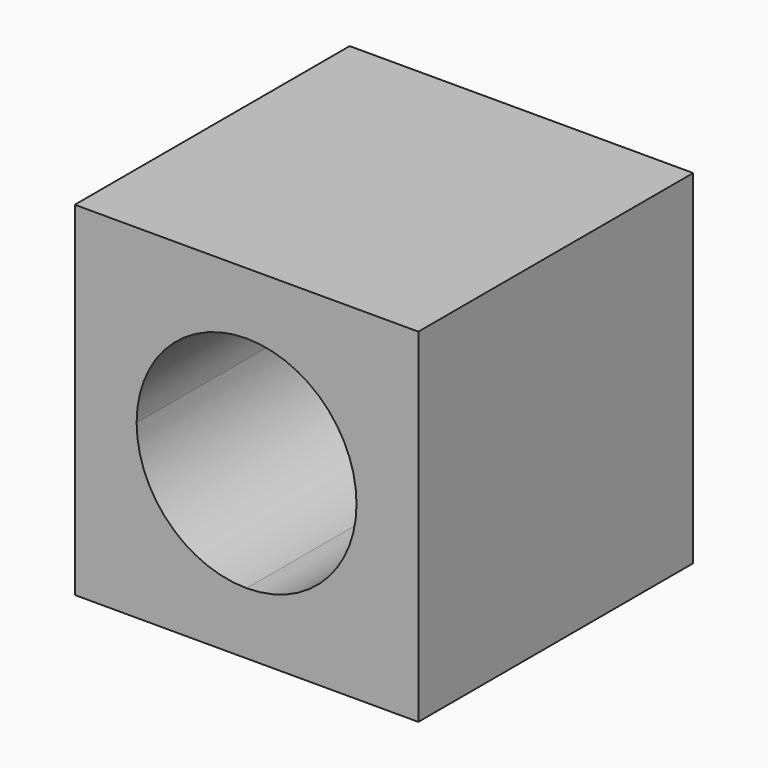
from build123d import *

# Parameters (mm, degrees)
F0_W     = 25
F0_H     = 25
F1_DEPTH = 25
F3_DEPTH = 25


with BuildPart() as f1:
    # F0 (on Front) → F1 (new body)
    with BuildSketch(Plane.XZ):
        with Locations((-24.8300924897, 4.453949444)):
            Rectangle(F0_W, F0_H)
    extrude(amount=F1_DEPTH)

    # F2 (on face) → F3 (cut)
    with BuildSketch(Plane.XZ.offset(25)):
        with BuildLine():
            Line((-24.8300924897, -3.546050556), (-24.8300924897, 4.453949444))
            Line((-24.8300924897, 4.453949444), (-32.8300924897, 4.453949444))
            ThreePointArc((-32.8300924897, 4.453949444), (-30.4869467392, -1.2029048055), (-24.8300924897, -3.546050556))
        make_face()
        with BuildLine():
            Line((-24.8300924897, 4.453949444), (-24.8300924897, 12.453949444))
            ThreePointArc((-24.8300924897, 12.453949444), (-30.4869467392, 10.1108036935), (-32.8300924897, 4.453949444))
            Line((-32.8300924897, 4.453949444), (-24.8300924897, 4.453949444))
        make_face()
        with BuildLine():
            ThreePointArc((-16.8300924897, 4.453949444), (-19.1732382402, 10.1108036935), (-24.8300924897, 12.453949444))
            Line((-24.8300924897, 12.453949444), (-24.8300924897, 4.453949444))
            Line((-24.8300924897, 4.453949444), (-16.8300924897, 4.453949444))
        make_face()
        with BuildLine():
            Line((-16.8300924897, 4.453949444), (-24.8300924897, 4.453949444))
            Line((-24.8300924897, 4.453949444), (-24.8300924897, -3.546050556))
            ThreePointArc((-24.8300924897, -3.546050556), (-19.1732382402, -1.2029048055), (-16.8300924897, 4.453949444))
        make_face()
    extrude(amount=-F3_DEPTH, mode=Mode.SUBTRACT)


solid = f1.part
